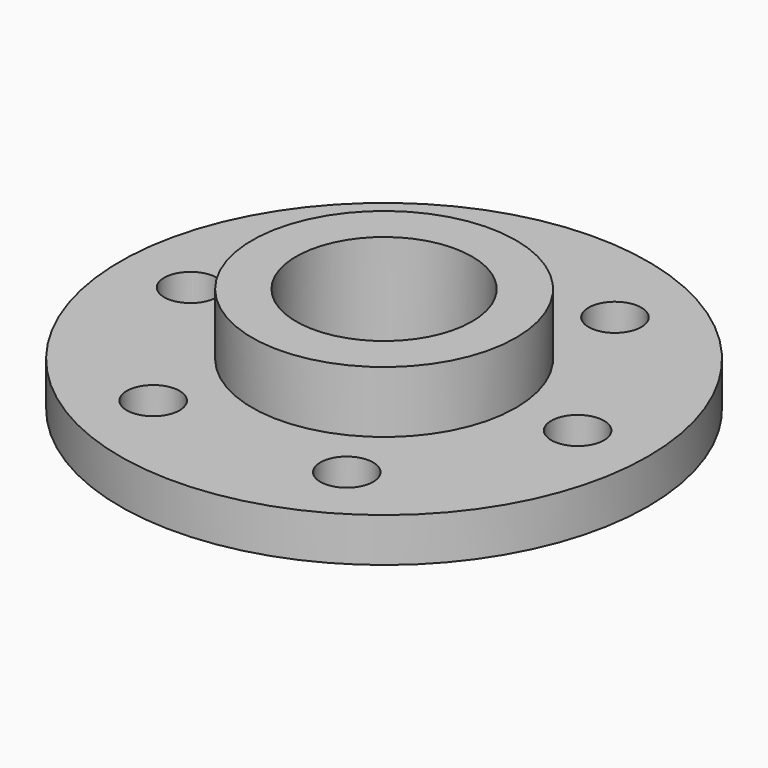
from build123d import *

# Parameters (mm, degrees)
CYLINDER003_R     = 3
CYLINDER003_DEPTH = 10
ARRAY_COUNT       = 6
CYLINDER002_R     = 10
CYLINDER002_DEPTH = 30
CYLINDER001_R     = 15
CYLINDER001_DEPTH = 12
CYLINDER_R        = 30
CYLINDER_DEPTH    = 5


with BuildPart() as array:
    # Cylinder003 → Cylinder003 (new body)
    with BuildSketch(Plane(origin=(22, 0, -1), x_dir=(1, 0, 0), z_dir=(0, 0, 1))):
        Circle(CYLINDER003_R)
    extrude(amount=CYLINDER003_DEPTH)

    # Array: Array ×6 about axis
    array_axis = Axis((0, 0, 0), (0, 0, 1))


with BuildPart() as array_1:
    add(array.part)
    for i in range(1, ARRAY_COUNT):
        add(array.part.rotate(array_axis, i * 360 / ARRAY_COUNT))


with BuildPart() as tub_interior:
    # Cylinder002 → Cylinder002 (new body)
    with BuildSketch(Plane.XY.offset(-1)):
        Circle(CYLINDER002_R)
    extrude(amount=CYLINDER002_DEPTH)


with BuildPart() as tub_exterior:
    # Cylinder001 → Cylinder001 (new body)
    with BuildSketch(Plane.XY):
        Circle(CYLINDER001_R)
    extrude(amount=CYLINDER001_DEPTH)


with BuildPart() as cut001:
    # Cylinder → Cylinder (new body)
    with BuildSketch(Plane.XY):
        Circle(CYLINDER_R)
    extrude(amount=CYLINDER_DEPTH)

    # Fusion: union tub_exterior
    add(tub_exterior.part)

    # Cut: cut tub_interior
    add(tub_interior.part, mode=Mode.SUBTRACT)

    # Cut001: cut Array
    add(array_1.part, mode=Mode.SUBTRACT)


solid = cut001.part
